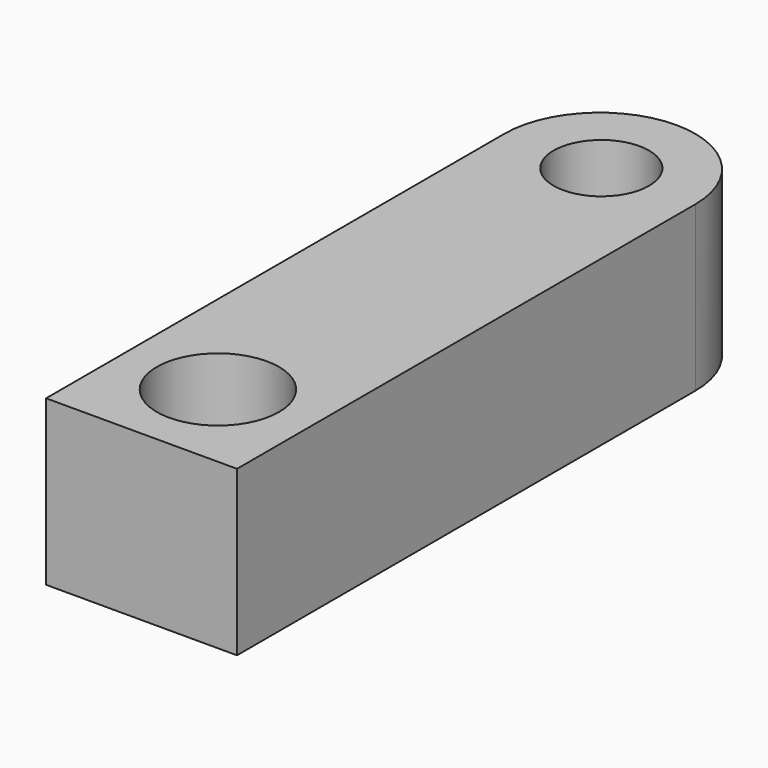
from build123d import *

# Parameters (mm, degrees)
F0_W     = 500
F0_H     = 430
F1_DEPTH = 1500
F3_DEPTH = 430
F4_R     = 125
F5_DEPTH = 500
F6_R     = 160
F7_DEPTH = 500


with BuildPart() as f1:
    # F0 (on Front) → F1 (new body)
    with BuildSketch(Plane.XZ):
        Rectangle(F0_W, F0_H)
    extrude(amount=-F1_DEPTH)

    # F2 (on face) → F3 (join)
    with BuildSketch(Plane.XY.offset(215)):
        with BuildLine():
            Line((-250, 1500), (250, 1500))
            ThreePointArc((250, 1500), (0, 1750), (-250, 1500))
        make_face()
    extrude(amount=-F3_DEPTH)

    # F4 (on face) → F5 (cut)
    with BuildSketch(Plane.XY.offset(215)):
        with Locations((0, 1505)):
            Circle(F4_R)
    extrude(amount=-F5_DEPTH, mode=Mode.SUBTRACT)

    # F6 (on face) → F7 (cut)
    with BuildSketch(Plane.XY.offset(215)):
        with Locations((0, 250)):
            Circle(F6_R)
    extrude(amount=-F7_DEPTH, mode=Mode.SUBTRACT)


solid = f1.part
